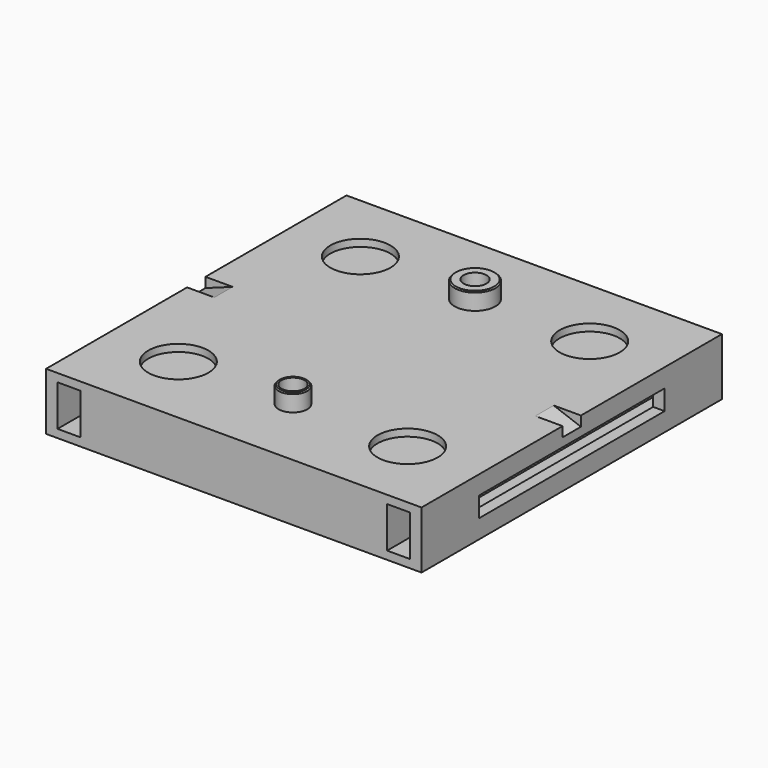
from build123d import *

# Parameters (mm, degrees)
SKETCH_W         = 65.5
SKETCH_H         = 65.5
PAD_DEPTH        = 10
SKETCH001_R      = 3.55
SKETCH001_R_2    = 2.5
PAD001_DEPTH     = 3
SKETCH002_R      = 2
POCKET_DEPTH     = 8
CHAMFER_SIZE     = 0.2
POCKET001_DEPTH  = 2.5
SKETCH004_W      = 40.5
SKETCH004_H      = 3.5
POCKET002_DEPTH  = 2
SKETCH005_W      = 40.5
SKETCH005_H      = 3.5
POCKET003_DEPTH  = 2
SKETCH006_W      = 65.5
SKETCH006_H      = 7.15
POCKET004_DEPTH  = 4
SKETCH007_W      = 65.5
SKETCH007_H      = 7.15
POCKET005_DEPTH  = 4
SKETCH008_R      = 0.925
POCKET006_DEPTH  = 2.15
CHAMFER001_SIZE2 = 0.25
CHAMFER001_SIZE  = 1
SKETCH009_R      = 5.25
POCKET007_DEPTH  = 1.25
SKETCH010_W      = 8.92708
SKETCH010_H      = 4
POCKET008_DEPTH  = 4
SKETCH011_W      = 8.92708
SKETCH011_H      = 4
POCKET009_DEPTH  = 5


with BuildPart() as part:
    # Sketch → Pad (new body)
    with BuildSketch(Plane.XY):
        Rectangle(SKETCH_W, SKETCH_H)
    extrude(amount=PAD_DEPTH)

    # Sketch001 (on Face6 of Pad) → Pad001 (join)
    with BuildSketch(Plane.XY.offset(10)):
        with Locations((0, 19.85)):
            Circle(SKETCH001_R)
        with Locations((0, -19.85)):
            Circle(SKETCH001_R_2)
    extrude(amount=PAD001_DEPTH)

    # Sketch002 (on Face10 of Pad001) → Pocket (cut)
    with BuildSketch(Plane.XY.offset(13)):
        with Locations((0, 19.85)):
            Circle(SKETCH002_R)
        with Locations((0, -19.85)):
            Circle(SKETCH002_R)
    extrude(amount=-POCKET_DEPTH, mode=Mode.SUBTRACT)

    # Chamfer
    chamfer_edges = [part.edges().sort_by_distance(p)[0] for p in [
        (-3.55, 19.85, 13),
        (-2.5, -19.85, 13),
    ]]
    chamfer(chamfer_edges, length=CHAMFER_SIZE)

    # Sketch003 (on DatumPlane) → Pocket001 (cut)
    with BuildSketch(Plane.XY.offset(5)):
        Polygon((-3.650297, 17.7425), (0, 15.635), (3.650297, 17.7425), (3.650297, 21.9575), (0, 24.065), (-3.650297, 21.9575), align=None)
        Polygon((-3.650297, -21.9575), (0, -24.065), (3.650297, -21.9575), (3.650297, -17.7425), (0, -15.635), (-3.650297, -17.7425), align=None)
    extrude(amount=-POCKET001_DEPTH, mode=Mode.SUBTRACT)

    # Sketch004 (on Face7 of Pocket001) → Pocket002 (cut)
    with BuildSketch(Plane.YZ.offset(32.75)):
        with Locations((0, 5)):
            Rectangle(SKETCH004_W, SKETCH004_H)
    extrude(amount=-POCKET002_DEPTH, mode=Mode.SUBTRACT)

    # Sketch005 (on Face6 of Pocket002) → Pocket003 (cut)
    with BuildSketch(Plane(origin=(-32.75, 0, 0), x_dir=(0, -1, 0), z_dir=(-1, 0, 0))):
        with Locations((0, 5)):
            Rectangle(SKETCH005_W, SKETCH005_H)
    extrude(amount=-POCKET003_DEPTH, mode=Mode.SUBTRACT)

    # Sketch006 (on DatumPlane) → Pocket004 (cut)
    with BuildSketch(Plane.YZ.offset(30.75)):
        with Locations((0, 5)):
            Rectangle(SKETCH006_W, SKETCH006_H)
    extrude(amount=-POCKET004_DEPTH, mode=Mode.SUBTRACT)

    # Sketch007 (on DatumPlane) → Pocket005 (cut)
    with BuildSketch(Plane(origin=(-30.75, 0, 0), x_dir=(0, -1, 0), z_dir=(-1, 0, 0))):
        with Locations((0, 5)):
            Rectangle(SKETCH007_W, SKETCH007_H)
    extrude(amount=-POCKET005_DEPTH, mode=Mode.SUBTRACT)

    # Sketch008 (on Face11 of Pocket005) → Pocket006 (cut)
    with BuildSketch(Plane(origin=(0, 0, 0), x_dir=(1, 0, 0), z_dir=(0, 0, -1))):
        with Locations((-25, 25)):
            Circle(SKETCH008_R)
        with Locations((25, 25)):
            Circle(SKETCH008_R)
        with Locations((-25, -25)):
            Circle(SKETCH008_R)
        with Locations((25, -25)):
            Circle(SKETCH008_R)
    extrude(amount=-POCKET006_DEPTH, mode=Mode.SUBTRACT)

    # Chamfer001
    chamfer001_edges = [part.edges().sort_by_distance(p)[0] for p in [
        (-25.925, -25, 0),
        (24.075, -25, 0),
        (-25.925, 25, 0),
        (24.075, 25, 0),
    ]]
    chamfer001_side = part.faces().sort_by_distance((0, 0, 0))[0]
    chamfer(chamfer001_edges, length=CHAMFER001_SIZE, length2=CHAMFER001_SIZE2, reference=chamfer001_side)

    # Sketch009 (on Face11 of Chamfer001) → Pocket007 (cut)
    with BuildSketch(Plane.XY.offset(10)):
        with Locations((-20, 19.85)):
            Circle(SKETCH009_R)
        with Locations((20, 19.85)):
            Circle(SKETCH009_R)
        with Locations((20, -19.85)):
            Circle(SKETCH009_R)
        with Locations((-20, -19.85)):
            Circle(SKETCH009_R)
    extrude(amount=-POCKET007_DEPTH, mode=Mode.SUBTRACT)

    # Sketch010 (on DatumPlane) → Pocket008 (cut)
    with BuildSketch(Plane(origin=(28, 0, 10), x_dir=(0.939693, 0, -0.34202), z_dir=(0.34202, 0, 0.939693))):
        with Locations((4.46354, 0)):
            Rectangle(SKETCH010_W, SKETCH010_H)
    extrude(amount=POCKET008_DEPTH, mode=Mode.SUBTRACT)

    # Sketch011 (on DatumPlane) → Pocket009 (cut)
    with BuildSketch(Plane(origin=(-28, 0, 10), x_dir=(0.939693, 0, 0.34202), z_dir=(-0.34202, 0, 0.939693))):
        with Locations((-4.46354, 0)):
            Rectangle(SKETCH011_W, SKETCH011_H)
    extrude(amount=POCKET009_DEPTH, mode=Mode.SUBTRACT)


solid = part.part
